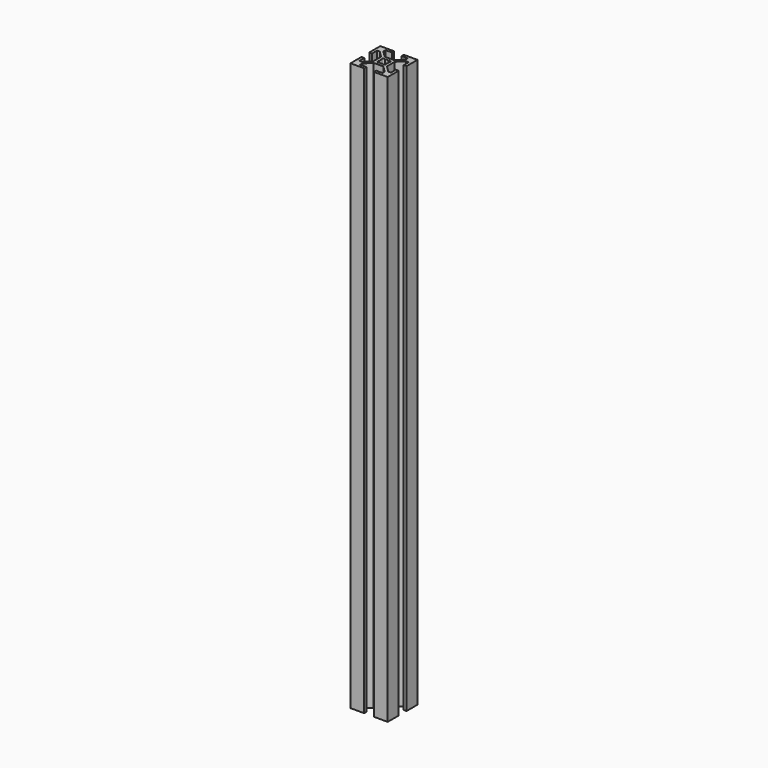
from build123d import *

# Parameters (mm, degrees)
F1_DEPTH = 305


with BuildPart() as f1:
    # F0 (on Top) → F1 (new body)
    with BuildSketch(Plane.XY):
        Polygon((10, 2.63), (10, 10), (2.63, 10), (2.63, 8.5), (5.995, 8.5), (5.995, 7.05566), (2.59934, 3.66), (-2.59934, 3.66), (-5.995, 7.05566), (-5.995, 8.5), (-2.63, 8.5), (-2.63, 10), (-10, 10), (-10, 2.63), (-8.5, 2.63), (-8.5, 5.995), (-7.05566, 5.995), (-3.66, 2.59934), (-3.66, -2.59934), (-7.05566, -5.995), (-8.5, -5.995), (-8.5, -2.63), (-10, -2.63), (-10, -10), (-2.63, -10), (-2.63, -8.5), (-5.995, -8.5), (-5.995, -7.05566), (-2.59934, -3.66), (2.59934, -3.66), (5.995, -7.05566), (5.995, -8.5), (2.63, -8.5), (2.63, -10), (10, -10), (10, -2.63), (8.5, -2.63), (8.5, -5.995), (7.05566, -5.995), (3.66, -2.59934), (3.66, 2.59934), (7.05566, 5.995), (8.5, 5.995), (8.5, 2.63), align=None)
        with BuildLine():
            ThreePointArc((1.886053, 0.912048), (2.042095, 0.467838), (2.095, 0))
            ThreePointArc((2.095, 0), (2.042095, -0.467838), (1.886053, -0.912048))
            ThreePointArc((1.886053, -0.912048), (2.102098, -1.161042), (2.179889, -1.481389))
            ThreePointArc((2.179889, -1.481389), (1.693777, -2.146816), (0.912048, -1.886053))
            ThreePointArc((0.912048, -1.886053), (0, -2.095), (-0.912048, -1.886053))
            ThreePointArc((-0.912048, -1.886053), (-1.975303, -1.975303), (-1.886053, -0.912048))
            ThreePointArc((-1.886053, -0.912048), (-2.095, 0), (-1.886053, 0.912048))
            ThreePointArc((-1.886053, 0.912048), (-1.975303, 1.975303), (-0.912048, 1.886053))
            ThreePointArc((-0.912048, 1.886053), (0, 2.095), (0.912048, 1.886053))
            ThreePointArc((0.912048, 1.886053), (1.693777, 2.146816), (2.179889, 1.481389))
            ThreePointArc((2.179889, 1.481389), (2.102098, 1.161042), (1.886053, 0.912048))
        make_face(mode=Mode.SUBTRACT)
    extrude(amount=F1_DEPTH)


solid = f1.part
